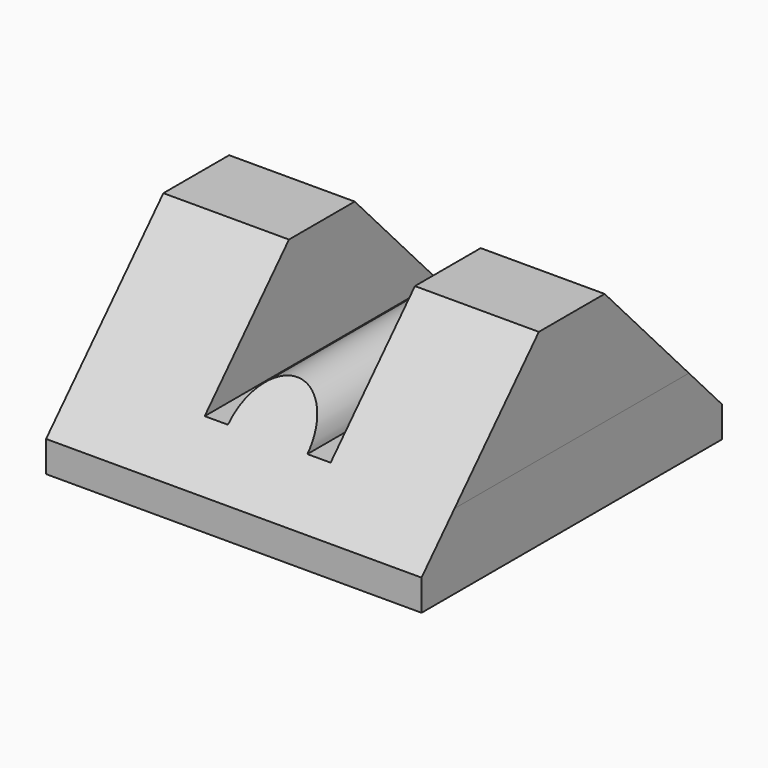
from build123d import *

# Parameters (mm, degrees)
F1_DEPTH = 25.4
F3_W     = 42.476376
F3_H     = 127
F4_DEPTH = 38.1
F2_W     = 41.917417
F2_H     = 127
F5_DEPTH = 38.1
F7_DEPTH = 127
F9_DEPTH = 127.001


with BuildPart() as f1:
    # F0 (on Top) → F1 (new body)
    with BuildSketch(Plane.XY):
        Polygon((63.5, 63.5), (0, 63.5), (-63.5, 63.5), (-63.5, 0), (-63.5, -63.5), (0, -63.5), (63.5, -63.5), (63.5, 0), align=None)
    extrude(amount=F1_DEPTH)

    # F3 (on face) → F4 (join)
    with BuildSketch(Plane.XY.offset(25.4)):
        with Locations((-42.261812, 0)):
            Rectangle(F3_W, F3_H)
    extrude(amount=F4_DEPTH)

    # F2 (on face) → F5 (join)
    with BuildSketch(Plane.XY.offset(25.4)):
        with Locations((42.541291, 0)):
            Rectangle(F2_W, F2_H)
    extrude(amount=F5_DEPTH)

    # F6 (on face) → F7 (join)
    with BuildSketch(Plane.XZ.offset(63.5)):
        with BuildLine():
            Line((-13.162336, 25.4), (13.721296, 25.4))
            ThreePointArc((13.721296, 25.4), (0.27948, 38.841816), (-13.162336, 25.4))
        make_face()
    extrude(amount=-F7_DEPTH)

    # F8 (on face) → F9 (cut, through all)
    with BuildSketch(Plane.YZ.offset(63.5)):
        Polygon((-63.5, 10.476396), (-13.906721, 63.5), (-63.5, 63.5), align=None)
        Polygon((63.5, 10.476396), (63.5, 63.5), (13.906721, 63.5), align=None)
    extrude(amount=-F9_DEPTH, mode=Mode.SUBTRACT)


solid = f1.part
